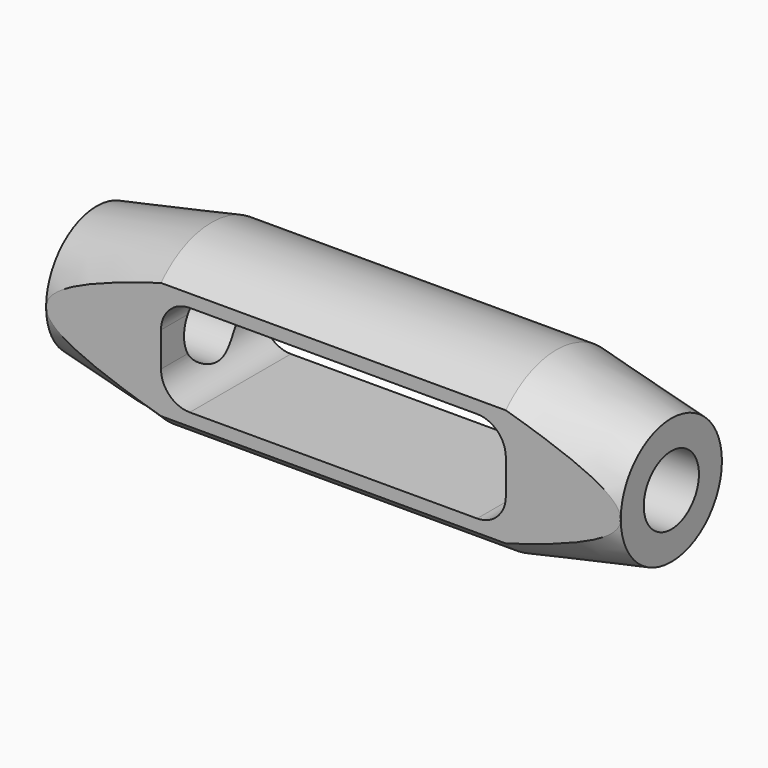
from build123d import *

# Parameters (mm, degrees)
SKETCH031_R      = 6
EXTRUDE026_DEPTH = 150
EXTRUDE025_DEPTH = 30
SKETCH029_W      = 15
SKETCH029_H      = 79.05159
SKETCH029_H_2    = 80
EXTRUDE024_DEPTH = 150


with BuildPart() as extrude027:
    # Sketch031 → Extrude026 (new body, symmetric)
    with BuildSketch(Plane.YZ):
        Circle(SKETCH031_R)
    extrude(amount=EXTRUDE026_DEPTH, both=True)


with BuildPart() as extrude026:
    # Sketch030 → Extrude025 (new body, symmetric)
    with BuildSketch(Plane.XZ):
        with BuildLine():
            Line((30, 3), (30, -3))
            ThreePointArc((25, -8), (28.535534, -6.535534), (30, -3))
            Line((25, -8), (-25, -8))
            ThreePointArc((-30, -3), (-28.535534, -6.535534), (-25, -8))
            Line((-30, -3), (-30, 3))
            ThreePointArc((-25, 8), (-28.535534, 6.535534), (-30, 3))
            Line((-25, 8), (25, 8))
            ThreePointArc((30, 3), (28.535534, 6.535534), (25, 8))
        make_face()
    extrude(amount=EXTRUDE025_DEPTH, both=True)


with BuildPart() as extrude025:
    # Sketch029 → Extrude024 (new body, symmetric)
    with BuildSketch(Plane.YZ):
        with Locations((-18.5, 0.159191)):
            Rectangle(SKETCH029_W, SKETCH029_H)
        with Locations((18.5, -0.315014)):
            Rectangle(SKETCH029_W, SKETCH029_H_2)
    extrude(amount=EXTRUDE024_DEPTH, both=True)


with BuildPart() as obj1:
    # Sketch028 → Revolve004 (revolve)
    with BuildSketch(Plane.XZ):
        Polygon((-50, 0), (-50, 11), (-30, 15), (30, 15), (50, 11), (50, 0), align=None)
    revolve(axis=Axis((-50, 0, 0), (-1, 0, 0)))

    # Cut012: cut Extrude025
    add(extrude025.part, mode=Mode.SUBTRACT)

    # Cut013: cut Extrude026
    add(extrude026.part, mode=Mode.SUBTRACT)

    # Cut014: cut Extrude027
    add(extrude027.part, mode=Mode.SUBTRACT)


with BuildPart() as obj1_1:
    # Cut014 placement: moved
    add(obj1.part.moved(Location((-530, 0, 0))))


solid = obj1_1.part
